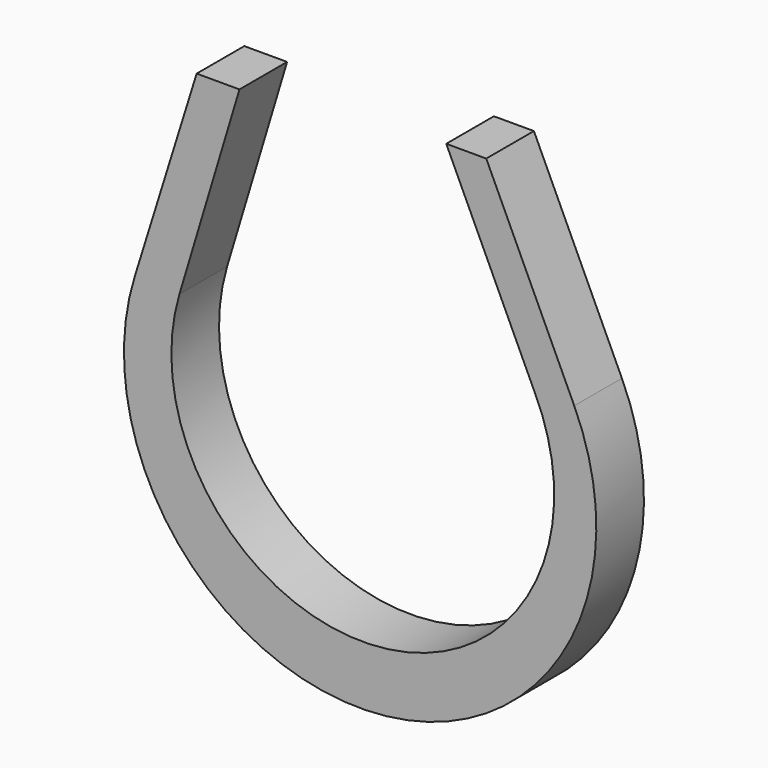
from build123d import *

# Parameters (mm, degrees)
F1_DEPTH = 5.08


with BuildPart() as f1:
    # F0 (on Front) → F1 (new body)
    with BuildSketch(Plane.XZ):
        with BuildLine():
            Line((-24.737729, 29.923169), (-30.026189, 12.947875))
            ThreePointArc((-30.026189, 12.947875), (-9.45138, -13.139336), (7.463505, 15.457028))
            Line((7.463505, 15.457028), (-0.039937, 31.576171))
            Line((-0.039937, 31.576171), (-3.453505, 31.576171))
            Line((-3.453505, 31.576171), (4.049937, 15.457028))
            ThreePointArc((4.049937, 15.457028), (-9.193481, -8.06828), (-26.203712, 12.895506))
            Line((-26.203712, 12.895506), (-21.086378, 29.923169))
            Line((-21.086378, 29.923169), (-24.737729, 29.923169))
        make_face()
    extrude(amount=F1_DEPTH)


solid = f1.part
